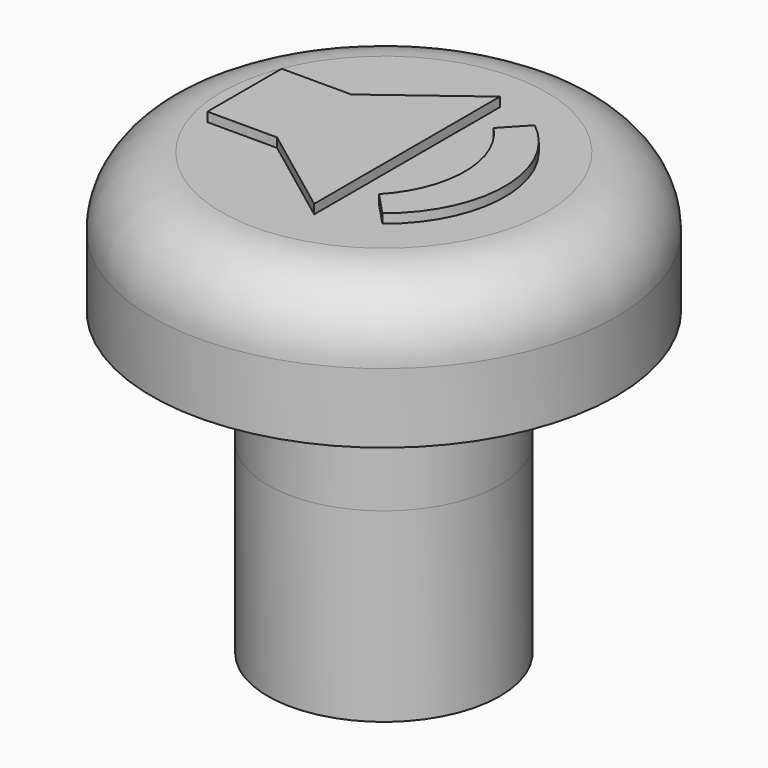
from build123d import *

# Parameters (mm, degrees)
SKETCH046_R     = 2.5
PAD023_DEPTH    = 2.5
SKETCH047_R     = 5
PAD024_DEPTH    = 3
FILLET003_R     = 1.5
SKETCH049_R     = 2.5
PAD025_DEPTH    = 4
SKETCH050_R     = 1.5
POCKET026_DEPTH = 4
PAD055_DEPTH    = 0.2


with BuildPart() as part:
    # Sketch046 → Pad023 (new body)
    with BuildSketch(Plane(origin=(0, 0, 30), x_dir=(1, 0, 0), z_dir=(0, 0, -1))):
        with Locations((101, 55)):
            Circle(SKETCH046_R)
    extrude(amount=-PAD023_DEPTH)

    # Sketch047 (on Face3 of Pad023) → Pad024 (join)
    with BuildSketch(Plane.XY.offset(32.5)):
        with Locations((101, -55)):
            Circle(SKETCH047_R)
    extrude(amount=PAD024_DEPTH)

    # Fillet003
    fillet003_edges = [part.edges().sort_by_distance(p)[0] for p in [
        (96, -55, 35.5),
    ]]
    fillet(fillet003_edges, radius=FILLET003_R)

    # Sketch049 → Pad025 (join)
    with BuildSketch(Plane(origin=(0, 0, 30), x_dir=(1, 0, 0), z_dir=(0, 0, -1))):
        with Locations((101, 55)):
            Circle(SKETCH049_R)
    extrude(amount=PAD025_DEPTH)

    # Sketch050 (on Face17 of Pad025) → Pocket026 (cut)
    with BuildSketch(Plane(origin=(0, 0, 26), x_dir=(1, 0, 0), z_dir=(0, 0, -1))):
        with Locations((101, 55)):
            Circle(SKETCH050_R)
    extrude(amount=-POCKET026_DEPTH, mode=Mode.SUBTRACT)


with BuildPart() as part_1:
    # Body002 placement: moved
    add(part.part.moved(Location((75, 0, 0))))

    # Sketch089 (on Face4 of Clone) → Pad055 (new body)
    with BuildSketch(Plane(origin=(176, -55, 35.5), x_dir=(1, 0, 0), z_dir=(0, 0, 1))):
        Polygon((-3, 1), (-3, -1), (-1.5, -1), (0.5, -2.5), (0.5, 2.5), (-1.5, 1), align=None)
        with BuildLine():
            ThreePointArc((1.608436, -2.050571), (2.606129, 0), (1.608436, 2.050571))
            Line((1.608436, 2.050571), (1.129955, 1.542421))
            ThreePointArc((1.129955, -1.542421), (1.744062, 0), (1.129955, 1.542421))
            Line((1.608436, -2.050571), (1.129955, -1.542421))
        make_face()
    extrude(amount=PAD055_DEPTH)


with BuildPart() as part_2:
    # Body012 placement: moved
    add(part_1.part.moved(Location((-75, 0, 0))))


solid = part_2.part
